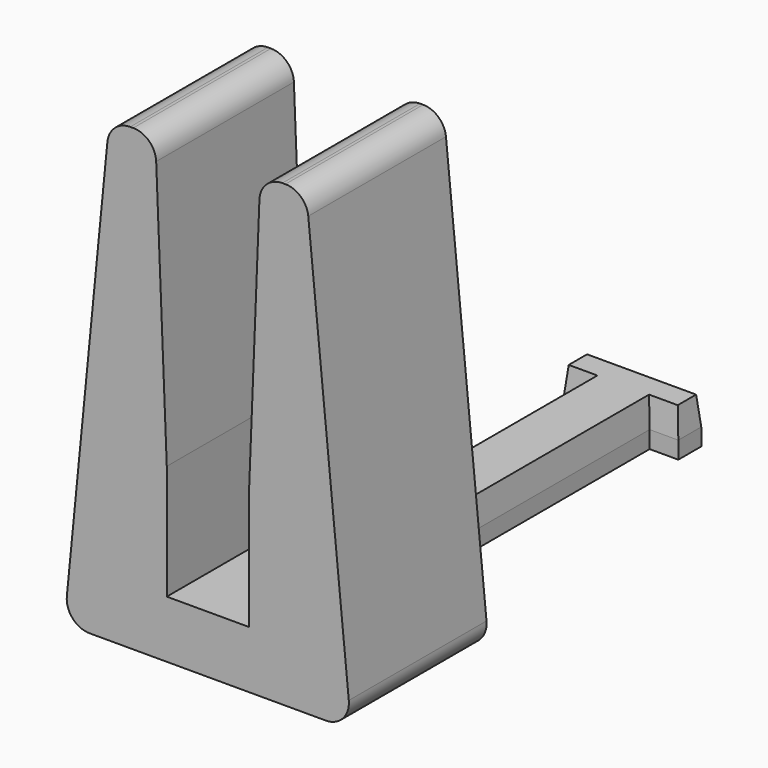
from build123d import *

# Parameters (mm, degrees)
F1_DEPTH = 30
F3_DEPTH = 8
F5_R     = 4
F6_SIZE2 = 50
F6_SIZE  = 2
F7_SIZE2 = 2
F7_SIZE  = 50
F8_R     = 4
F9_SIZE2 = 5
F9_SIZE  = 0.5


with BuildPart() as f1:
    # F0 (on Front) → F1 (new body)
    with BuildSketch(Plane.XZ):
        Polygon((-7.85, 0), (0, 0), (34.3, 0), (42.15, 0), (34.3, 80), (24.3, 80), (24.3, 10), (10, 10), (10, 80), (0, 80), align=None)
    extrude(amount=F1_DEPTH)


with BuildPart() as f3:
    # F2 (on face) → F3 (new body)
    with BuildSketch(Plane(origin=(0, 0, 0), x_dir=(1, 0, 0), z_dir=(0, 0, -1))):
        Polygon((12.15, 10), (12.15, 0), (12.15, -50), (12.15, -60), (7.15, -60), (7.15, -65), (27.15, -65), (27.15, -60), (22.15, -60), (22.15, -50), (22.15, 0), (22.15, 10), (27.15, 10), (27.15, 15), (7.15, 15), (7.15, 10), align=None)
    extrude(amount=-F3_DEPTH)


with BuildPart() as f1_1:
    add(f1.part)

    # F4: cut F3
    add(f3.part, mode=Mode.SUBTRACT)

    # F5
    f5_edges = [f1_1.edges().sort_by_distance(p)[0] for p in [
        (-7.85, -15, 0),
        (42.15, -15, 0),
        (34.3, -15, 80),
        (0, -15, 80),
    ]]
    fillet(f5_edges, radius=F5_R)

    # F6
    f6_edges = [f1_1.edges().sort_by_distance(p)[0] for p in [
        (10, -15, 80),
    ]]
    f6_side = f1_1.faces().sort_by_distance((6.813355, -15, 80))[0]
    chamfer(f6_edges, length=F6_SIZE, length2=F6_SIZE2, reference=f6_side)

    # F7
    f7_edges = [f1_1.edges().sort_by_distance(p)[0] for p in [
        (24.3, -15, 80),
    ]]
    f7_side = f1_1.faces().sort_by_distance((24.3, -15, 45))[0]
    chamfer(f7_edges, length=F7_SIZE, length2=F7_SIZE2, reference=f7_side)

    # F8
    f8_edges = [f1_1.edges().sort_by_distance(p)[0] for p in [
        (8, -15, 80),
        (26.3, -15, 80),
    ]]
    fillet(f8_edges, radius=F8_R)


with BuildPart() as f3_1:
    add(f3.part)

    # F9
    f9_edges = [f3_1.edges().sort_by_distance(p)[0] for p in [
        (22.15, 25, 8),
        (24.65, 60, 8),
        (27.15, 62.5, 8),
        (24.65, -10, 8),
        (27.15, -12.5, 8),
        (17.15, 65, 8),
        (7.15, 62.5, 8),
        (12.15, 25, 8),
        (9.65, -10, 8),
        (7.15, -12.5, 8),
        (9.65, 60, 8),
        (17.15, -15, 8),
    ]]
    f9_side = f3_1.faces().sort_by_distance((17.15, 25, 8))[0]
    chamfer(f9_edges, length=F9_SIZE, length2=F9_SIZE2, reference=f9_side)


solid = Compound([f1_1.part, f3_1.part])
